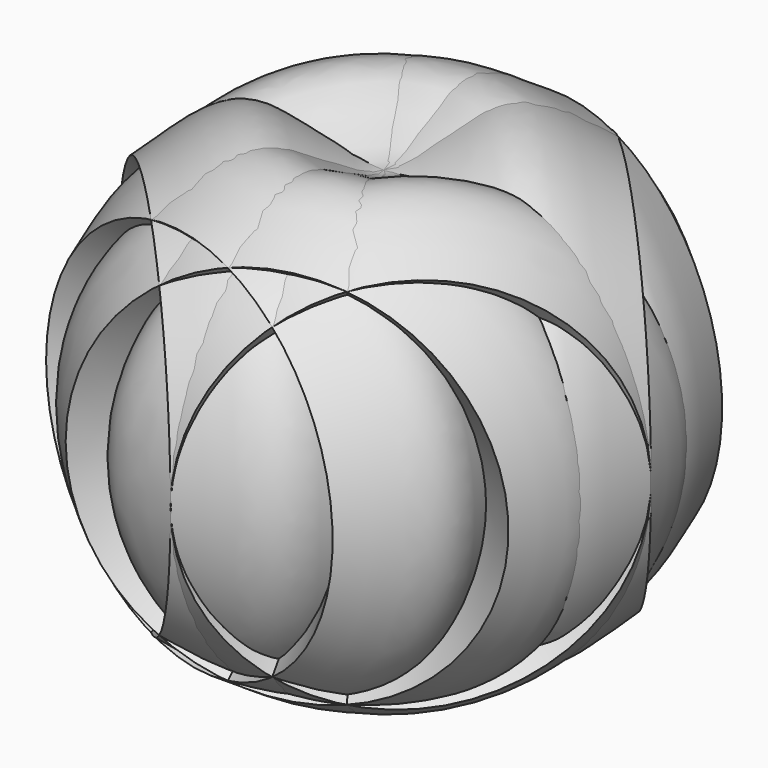
from build123d import *

# Parameters (mm, degrees)
F3_COUNT = 4
F3_ANGLE = 90


with BuildPart() as f1:
    # F0 (on Top) → F1 (revolve)
    with BuildSketch(Plane.XY):
        with BuildLine():
            Line((-28.0853603035, 0), (-38.1, 0))
            add(Edge.make_bspline(
                [(-38.1, 0), (-36.77204003, -5.4171399716), (-35.528137636, -16.3088090896), (-15.6157633186, -15.6157633186), (-16.3088090896, -35.528137636), (-5.4171399716, -36.77204003), (0, -38.1)],
                knots=[0, 0, 0, 0, 0.25, 0.5, 0.75, 1, 1, 1, 1], degree=3))
            Line((0, -38.1), (0, -28.0853603035))
            Line((0, -28.0853603035), (-28.0853603035, 0))
        make_face()
    revolve(axis=Axis((8.0499444157, -8.0499444157, 0), (0.7071067812, -0.7071067812, 0)))


with BuildPart() as f3_1:
    # F3: instance of F1
    add(f1.part.rotate(Axis((0, 0, 7.7252477179), (0, 0, -1)), 1 * F3_ANGLE / (F3_COUNT - 1)))


with BuildPart() as f3_2:
    # F3: instance of F1
    add(f1.part.rotate(Axis((0, 0, 7.7252477179), (0, 0, -1)), 2 * F3_ANGLE / (F3_COUNT - 1)))


with BuildPart() as f3_3:
    # F3: instance of F1
    add(f1.part.rotate(Axis((0, 0, 7.7252477179), (0, 0, -1)), 3 * F3_ANGLE / (F3_COUNT - 1)))


solid = Compound([f1.part, f3_1.part, f3_2.part, f3_3.part])
